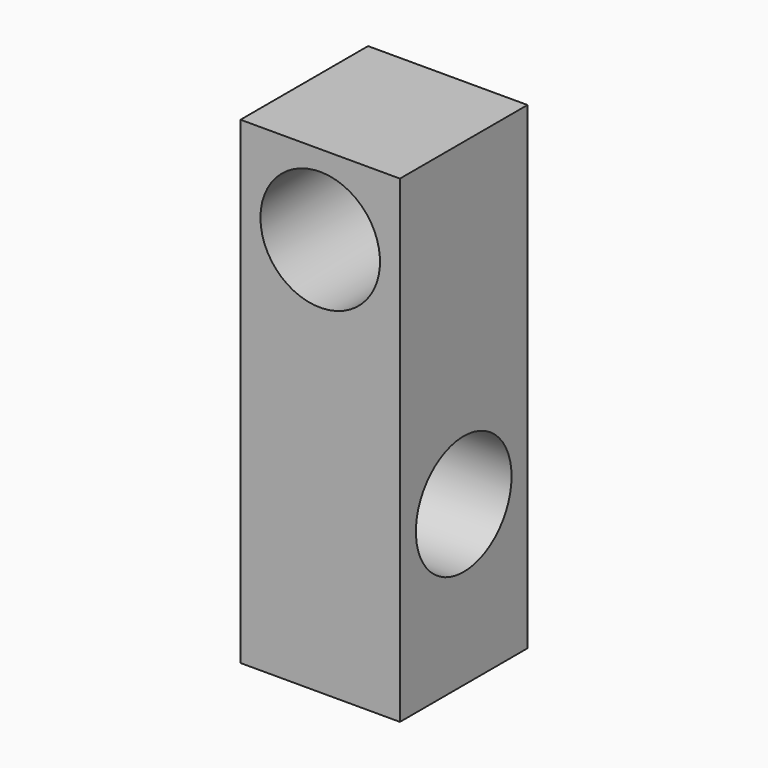
from build123d import *

# Parameters (mm, degrees)
F0_W     = 6.35
F0_H     = 19.05
F0_R     = 2.38125
F1_DEPTH = 6.35
F2_R     = 2.38125
F3_DEPTH = 25.4


with BuildPart() as f1:
    # F0 (on Right) → F1 (new body)
    with BuildSketch(Plane.YZ):
        with Locations((3.175, 9.525)):
            Rectangle(F0_W, F0_H)
        with Locations((3.175, 6.35)):
            Circle(F0_R, mode=Mode.SUBTRACT)
    extrude(amount=F1_DEPTH)

    # F2 (on face) → F3 (cut)
    with BuildSketch(Plane(origin=(0, 6.35, 0), x_dir=(-1, 0, 0), z_dir=(0, 1, 0))):
        with Locations((-3.175, 15.875)):
            Circle(F2_R)
    extrude(amount=-F3_DEPTH, mode=Mode.SUBTRACT)


solid = f1.part
